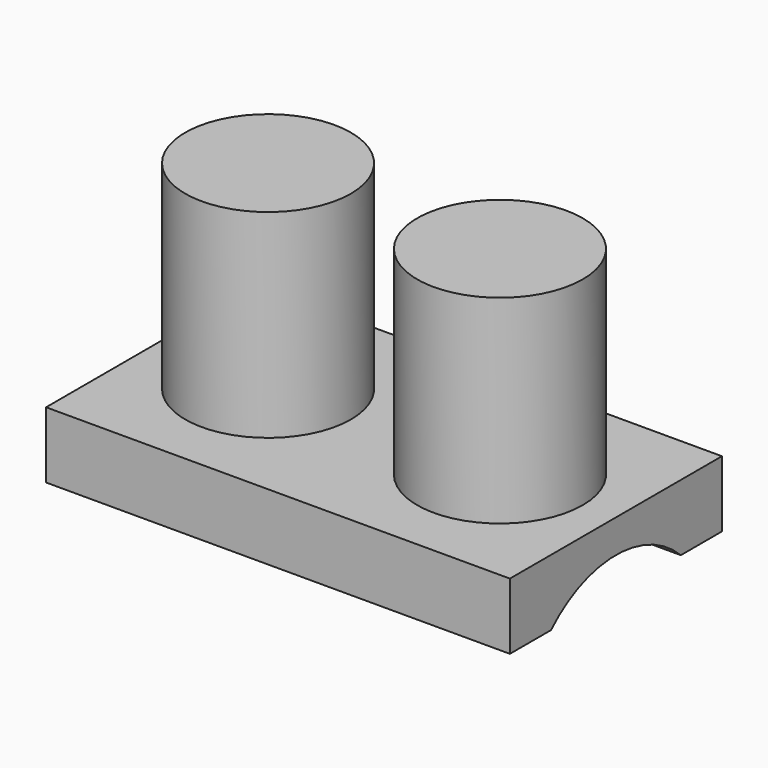
from build123d import *

# Parameters (mm, degrees)
F0_W     = 14
F0_H     = 2
F1_DEPTH = 4
F2_R     = 2.5
F3_DEPTH = 6
F5_R     = 3.5
F6_DEPTH = 12.7


with BuildPart() as f1:
    # F0 (on Front) → F1 (new body, symmetric)
    with BuildSketch(Plane.XZ):
        with Locations((5.8627421725, 1)):
            Rectangle(F0_W, F0_H)
    extrude(amount=F1_DEPTH, both=True)

    # F2 (on face) → F3 (join)
    with BuildSketch(Plane.XY.offset(2)):
        with Locations((9.3627421725, 0)):
            Circle(F2_R)
        with Locations((2.3627421725, 0)):
            Circle(F2_R)
    extrude(amount=F3_DEPTH)

    # F5 (on mid) → F6 (cut, symmetric)
    with BuildSketch(Plane(origin=(5.8627421725, 0, 0), x_dir=(0, -1, 0), z_dir=(-1, 0, 0))):
        with Locations((0, -2.5)):
            Circle(F5_R)
    extrude(amount=F6_DEPTH, both=True, mode=Mode.SUBTRACT)


solid = f1.part
